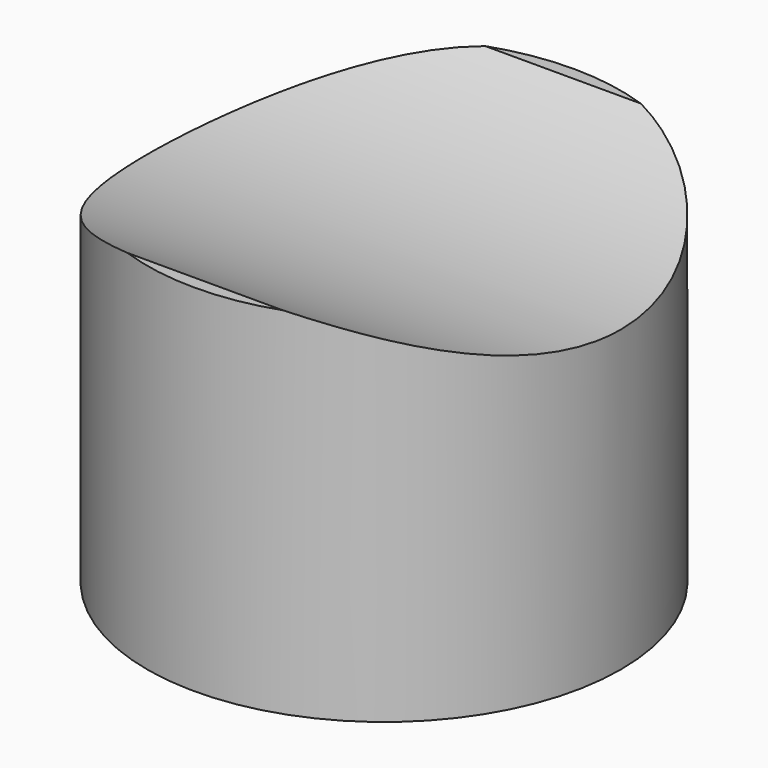
from build123d import *

# Parameters (mm, degrees)
F0_R     = 10
F1_DEPTH = 15
F2_R     = 20
F3_DEPTH = 30.3


with BuildPart() as f1:
    # F0 (on Top) → F1 (new body)
    with BuildSketch(Plane.XY):
        Circle(F0_R)
    extrude(amount=F1_DEPTH)

    # F2 (on Right) → F3 (cut, symmetric)
    with BuildSketch(Plane.YZ):
        with Locations((0, 32.629382)):
            Circle(F2_R)
    extrude(amount=F3_DEPTH, both=True, mode=Mode.SUBTRACT)


solid = f1.part
